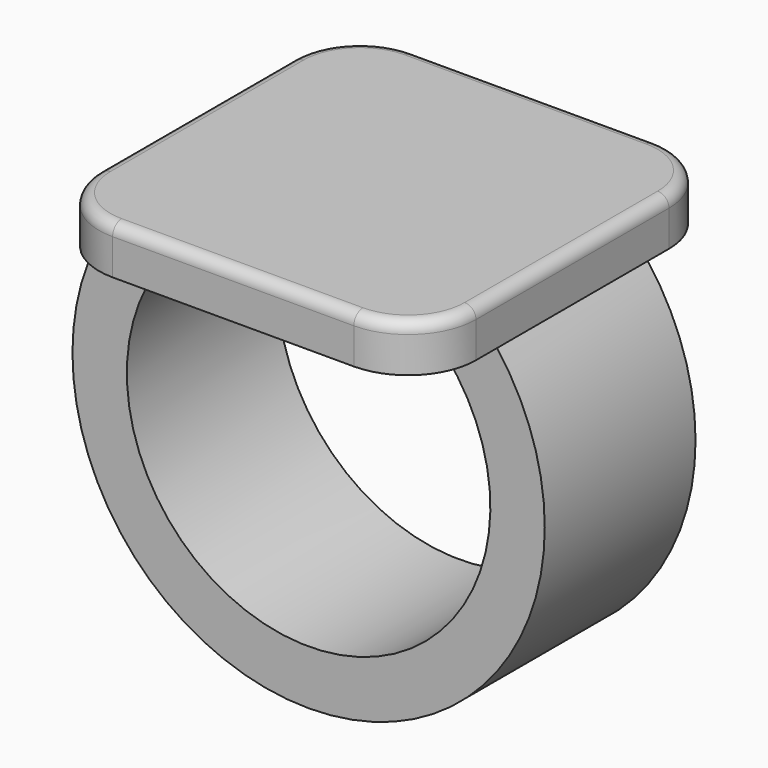
from build123d import *

# Parameters (mm, degrees)
F0_W     = 25.4
F0_H     = 25.4
F1_DEPTH = 3.175
F3_W     = 5.08
F3_H     = 12.7
F6_DEPTH = 6.35
F7_R     = 4.572
F8_R     = 0.762


with BuildPart() as f1:
    # F0 (on Top) → F1 (new body)
    with BuildSketch(Plane.XY):
        Rectangle(F0_W, F0_H)
    extrude(amount=F1_DEPTH)

    # F4: sweep along a path in F2
    with BuildLine(Plane.XZ) as f4_path:
        ThreePointArc((-10.16, 0), (0, -23.55829), (10.16, 0))
    # F3 (on face) → F4 (sweep)
    with BuildSketch(Plane(origin=(0, 0, 0), x_dir=(1, 0, 0), z_dir=(0, 0, -1))):
        with Locations((-10.16, 0)):
            Rectangle(F3_W, F3_H)
    sweep(path=f4_path.line)

    # F5 (on Front) → F6 (join, symmetric)
    with BuildSketch(Plane.XZ):
        with BuildLine():
            Line((10.013058, -2.535746), (10.16, 0))
            Line((10.16, 0), (7.62, 0))
            ThreePointArc((7.62, 0), (8.907227, -1.182279), (10.013058, -2.535746))
        make_face()
    extrude(amount=F6_DEPTH, both=True)

    # F7
    f7_edges = [f1.edges().sort_by_distance(p)[0] for p in [
        (12.7, -12.7, 1.5875),
        (12.7, 12.7, 1.5875),
        (-12.7, 12.7, 1.5875),
        (-12.7, -12.7, 1.5875),
    ]]
    fillet(f7_edges, radius=F7_R)

    # F8
    f8_edges = [f1.edges().sort_by_distance(p)[0] for p in [
        (0, -12.7, 3.175),
        (-11.360892, -11.360892, 3.175),
        (11.360892, -11.360892, 3.175),
        (-12.7, 0, 3.175),
        (12.7, 0, 3.175),
        (-11.360892, 11.360892, 3.175),
        (11.360892, 11.360892, 3.175),
        (0, 12.7, 3.175),
    ]]
    fillet(f8_edges, radius=F8_R)


solid = f1.part
